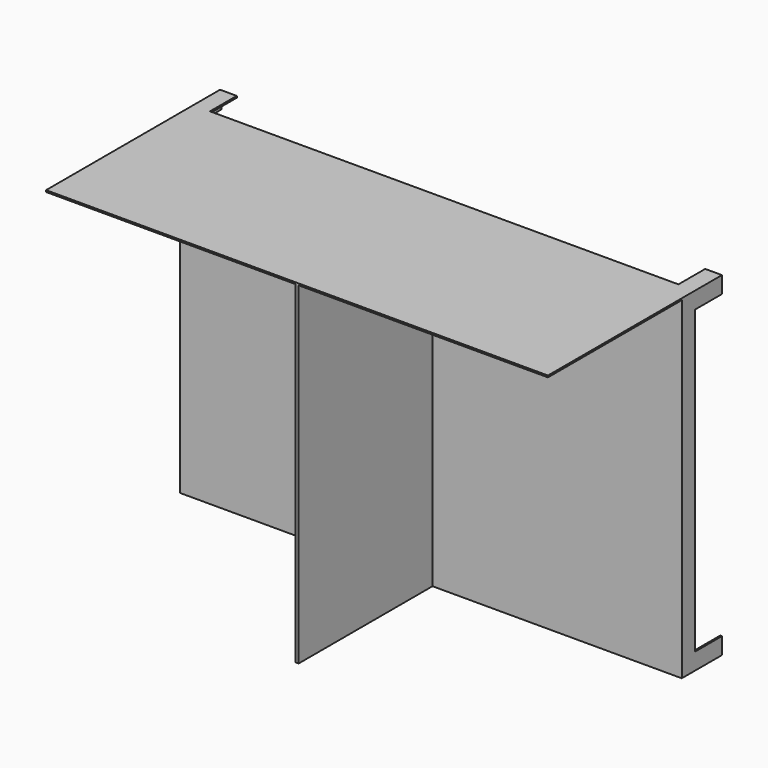
from build123d import *

# Parameters (mm, degrees)
F0_W     = 1500
F0_H     = 1000
F1_DEPTH = 25
F3_DEPTH = 100
F4_W     = 1500
F4_H     = 5
F5_DEPTH = 500
F7_DEPTH = 500


with BuildPart() as f1:
    # F0 (on Front) → F1 (new body, symmetric)
    with BuildSketch(Plane.XZ):
        Rectangle(F0_W, F0_H)
    extrude(amount=F1_DEPTH, both=True)

    # F2 (on face) → F3 (join)
    with BuildSketch(Plane(origin=(0, 25, 0), x_dir=(-1, 0, 0), z_dir=(0, 1, 0))):
        Polygon((700, -500), (750, -500), (750, -450), (745, -450), (745, -495), (700, -495), align=None)
        Polygon((-750, -500), (-700, -500), (-700, -495), (-745, -495), (-745, -450), (-750, -450), align=None)
        Polygon((-700, 495), (-700, 500), (-750, 500), (-750, 450), (-745, 450), (-745, 495), align=None)
        Polygon((745, 450), (750, 450), (750, 500), (700, 500), (700, 495), (745, 495), align=None)
    extrude(amount=F3_DEPTH)

    # F4 (on face) → F5 (join)
    with BuildSketch(Plane.XZ.offset(25)):
        with Locations((0, 497.5)):
            Rectangle(F4_W, F4_H)
    extrude(amount=F5_DEPTH)

    # F6 (on face) → F7 (join)
    with BuildSketch(Plane.XZ.offset(25)):
        Polygon((-5, -500), (0, -500), (5, -500), (5, 495), (0, 495), (-5, 495), align=None)
    extrude(amount=F7_DEPTH)


solid = f1.part
